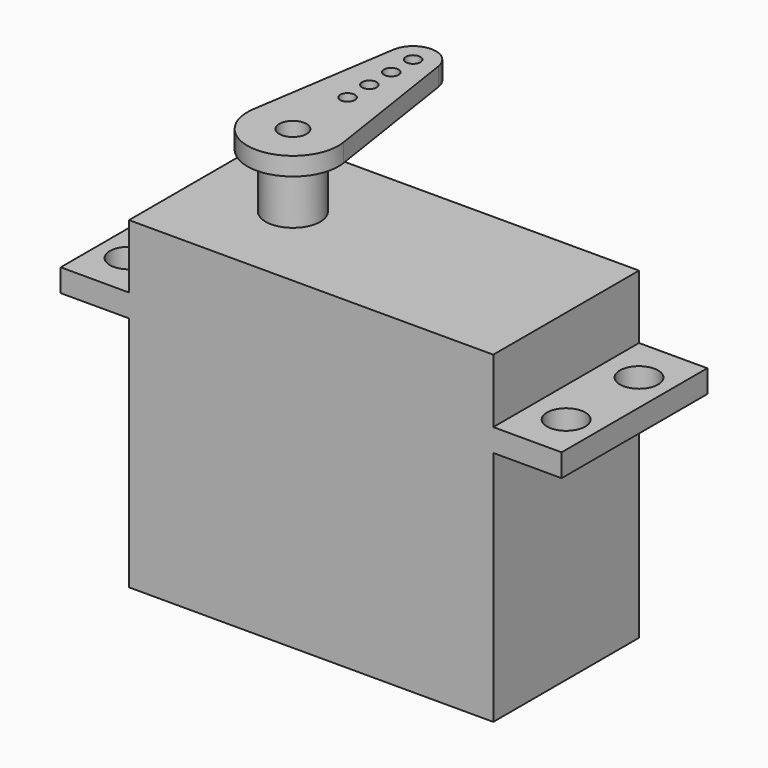
from build123d import *

# Parameters (mm, degrees)
F1_DEPTH = 10
F2_R     = 3
F3_DEPTH = 6
F4_R     = 2.1
F5_DEPTH = 28.501
F6_R     = 3
F6_R_2   = 0.8
F6_R_3   = 1.5
F7_DEPTH = 2


with BuildPart() as f1:
    # F0 (on Front) → F1 (new body, symmetric)
    with BuildSketch(Plane.XZ):
        Polygon((20, 0), (0, 0), (-20, 0), (-20, -7), (-27.5, -7), (-27.5, -9.5), (-20, -9.5), (-20, -35.5), (0, -35.5), (20, -35.5), (20, -9.5), (27.5, -9.5), (27.5, -7), (20, -7), align=None)
    extrude(amount=F1_DEPTH, both=True)

    # F2 (on face) → F3 (join)
    with BuildSketch(Plane.XY):
        with Locations((-10, 0)):
            Circle(F2_R)
    extrude(amount=F3_DEPTH)

    # F4 (on face) → F5 (cut, through all)
    with BuildSketch(Plane.XY.offset(-7)):
        with Locations((-24, 5)):
            Circle(F4_R)
        with Locations((-24, -5)):
            Circle(F4_R)
        with Locations((24, 5)):
            Circle(F4_R)
        with Locations((24, -5)):
            Circle(F4_R)
    extrude(amount=-F5_DEPTH, mode=Mode.SUBTRACT)


with BuildPart() as f7:
    # F6 (on face) → F7 (new body)
    with BuildSketch(Plane.XY.offset(6)):
        with BuildLine():
            Line((-5.057725, 0.757576), (-7.528863, 16.878788))
            ThreePointArc((-7.528863, 16.878788), (-10, 19), (-12.471137, 16.878788))
            Line((-12.471137, 16.878788), (-14.942275, 0.757576))
            ThreePointArc((-14.942275, 0.757576), (-10, -5), (-5.057725, 0.757576))
        make_face()
        with Locations((-10, 0)):
            Circle(F6_R, mode=Mode.SUBTRACT)
        with Locations((-10, 7.5)):
            Circle(F6_R_2, mode=Mode.SUBTRACT)
        with Locations((-10, 10.5)):
            Circle(F6_R_2, mode=Mode.SUBTRACT)
        with Locations((-10, 13.5)):
            Circle(F6_R_2, mode=Mode.SUBTRACT)
        with Locations((-10, 16.5)):
            Circle(F6_R_2, mode=Mode.SUBTRACT)
        with Locations((-10, 0)):
            Circle(F6_R)
        with Locations((-10, 0)):
            Circle(F6_R_3, mode=Mode.SUBTRACT)
    extrude(amount=F7_DEPTH)


solid = Compound([f1.part, f7.part])
